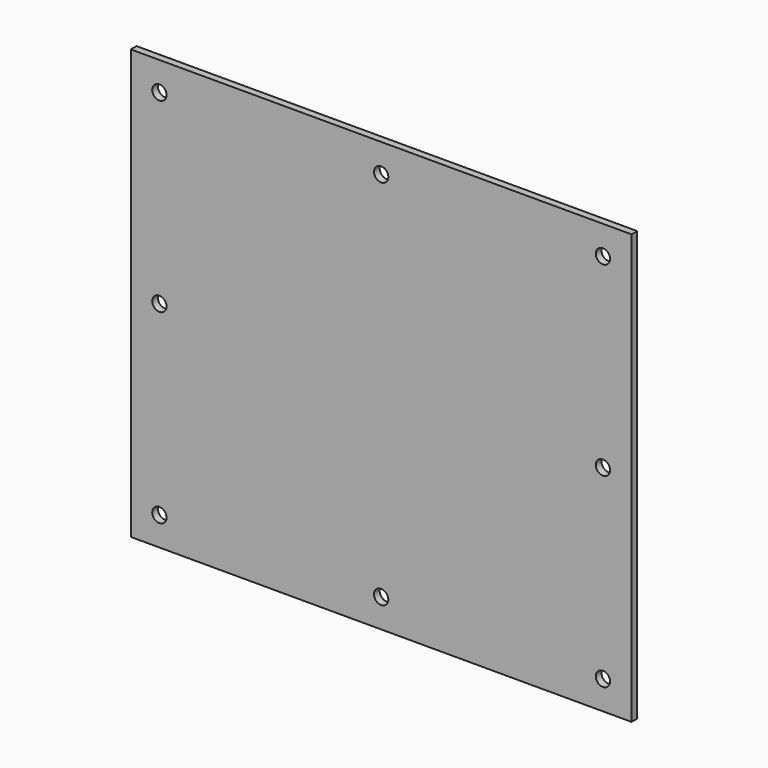
from build123d import *

# Parameters (mm, degrees)
F0_W     = 350
F0_H     = 300
F0_R     = 5
F1_DEPTH = 5


with BuildPart() as f1:
    # F0 (on Front) → F1 (new body)
    with BuildSketch(Plane.XZ):
        Rectangle(F0_W, F0_H)
        with Locations((-155, -130)):
            Circle(F0_R, mode=Mode.SUBTRACT)
        with Locations((0, -130)):
            Circle(F0_R, mode=Mode.SUBTRACT)
        with Locations((155, -130)):
            Circle(F0_R, mode=Mode.SUBTRACT)
        with Locations((-155, 0)):
            Circle(F0_R, mode=Mode.SUBTRACT)
        with Locations((-155, 130)):
            Circle(F0_R, mode=Mode.SUBTRACT)
        with Locations((155, 0)):
            Circle(F0_R, mode=Mode.SUBTRACT)
        with Locations((0, 130)):
            Circle(F0_R, mode=Mode.SUBTRACT)
        with Locations((155, 130)):
            Circle(F0_R, mode=Mode.SUBTRACT)
    extrude(amount=F1_DEPTH)


solid = f1.part
